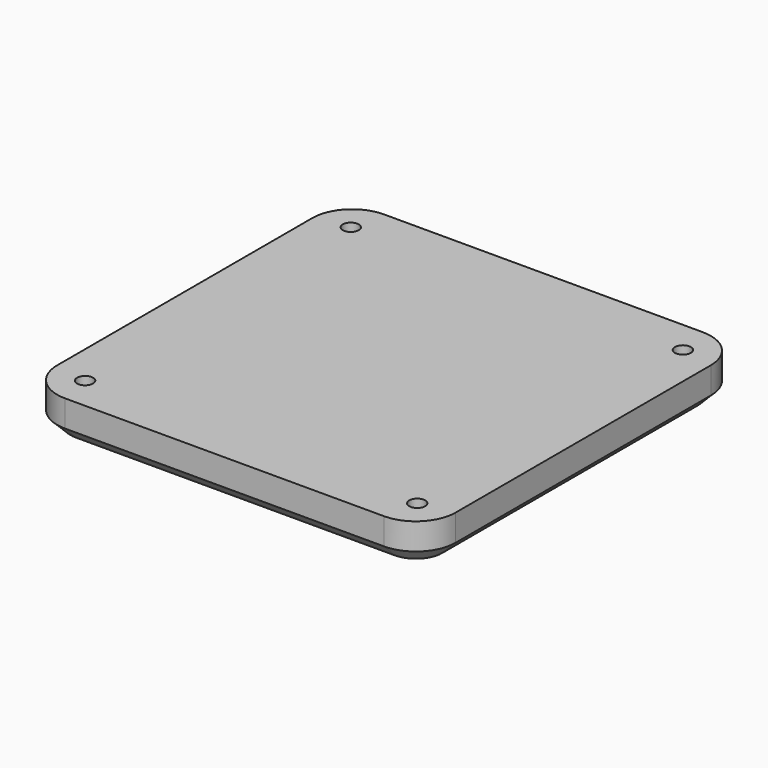
from build123d import *

# Parameters (mm, degrees)
F0_R     = 6
F1_DEPTH = 30
F2_SIZE2 = 10
F2_SIZE  = 10
F3_DEPTH = 10
F4_DEPTH = 20


with BuildPart() as f1:
    # F0 (on Top) → F1 (new body)
    with BuildSketch(Plane.XY):
        with BuildLine():
            ThreePointArc((150, 120), (141.213203, 141.213203), (120, 150))
            Line((120, 150), (-120, 150))
            ThreePointArc((-120, 150), (-141.213203, 141.213203), (-150, 120))
            Line((-150, 120), (-150, -120))
            ThreePointArc((-150, -120), (-141.213203, -141.213203), (-120, -150))
            Line((-120, -150), (120, -150))
            ThreePointArc((120, -150), (141.213203, -141.213203), (150, -120))
            Line((150, -120), (150, 120))
        make_face()
        with Locations((-125, -125)):
            Circle(F0_R, mode=Mode.SUBTRACT)
        with Locations((-112.5, -112.5)):
            Circle(F0_R, mode=Mode.SUBTRACT)
        with Locations((125, -125)):
            Circle(F0_R, mode=Mode.SUBTRACT)
        with Locations((112.5, -112.5)):
            Circle(F0_R, mode=Mode.SUBTRACT)
        with Locations((-125, 125)):
            Circle(F0_R, mode=Mode.SUBTRACT)
        with Locations((-112.5, 112.5)):
            Circle(F0_R, mode=Mode.SUBTRACT)
        with Locations((112.5, 112.5)):
            Circle(F0_R, mode=Mode.SUBTRACT)
        with Locations((125, 125)):
            Circle(F0_R, mode=Mode.SUBTRACT)
        with Locations((-125, 125)):
            Circle(F0_R)
        with Locations((125, 125)):
            Circle(F0_R)
        with Locations((125, -125)):
            Circle(F0_R)
        with Locations((-125, -125)):
            Circle(F0_R)
    extrude(amount=-F1_DEPTH)

    # F2
    f2_edges = [f1.edges().sort_by_distance(p)[0] for p in [
        (0, 150, -30),
    ]]
    chamfer(f2_edges, length=F2_SIZE, length2=F2_SIZE2)

    # F0 (on Top) → F3 (cut)
    with BuildSketch(Plane.XY):
        with Locations((-125, 125)):
            Circle(F0_R)
        with Locations((125, 125)):
            Circle(F0_R)
        with Locations((-125, -125)):
            Circle(F0_R)
        with Locations((125, -125)):
            Circle(F0_R)
    extrude(amount=-F3_DEPTH, mode=Mode.SUBTRACT)

    # F0 (on Top) → F4 (join)
    with BuildSketch(Plane.XY):
        with Locations((-112.5, 112.5)):
            Circle(F0_R)
        with Locations((112.5, 112.5)):
            Circle(F0_R)
        with Locations((112.5, -112.5)):
            Circle(F0_R)
        with Locations((-112.5, -112.5)):
            Circle(F0_R)
    extrude(amount=-F4_DEPTH)


solid = f1.part
